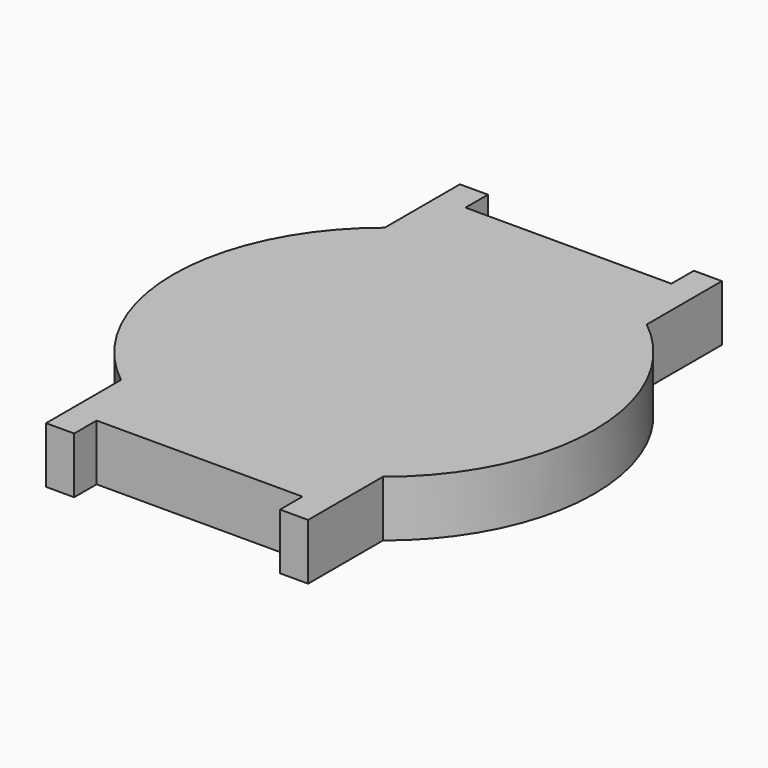
from build123d import *

# Parameters (mm, degrees)
F1_DEPTH = 6
F2_W     = 22
F2_H     = 3
F3_DEPTH = 6


with BuildPart() as f1:
    # F0 (on Top) → F1 (new body)
    with BuildSketch(Plane.XY):
        with BuildLine():
            Line((-28, 0), (0, 0))
            Line((0, 0), (0, 10))
            ThreePointArc((0, 10), (8.5, 27.613915), (0, 45.22783))
            Line((0, 45.22783), (0, 55.272548))
            Line((0, 55.272548), (-28, 55.272548))
            Line((-28, 55.272548), (-28, 45.22783))
            ThreePointArc((-28, 45.22783), (-36.5, 27.613915), (-28, 10))
            Line((-28, 10), (-28, 0))
        make_face()
    extrude(amount=F1_DEPTH)

    # F2 (on face) → F3 (cut, through all)
    with BuildSketch(Plane.XY.offset(6)):
        with Locations((-14, 53.772548)):
            Rectangle(F2_W, F2_H)
        with Locations((-14, 1.5)):
            Rectangle(F2_W, F2_H)
    extrude(amount=-F3_DEPTH, mode=Mode.SUBTRACT)


solid = f1.part
